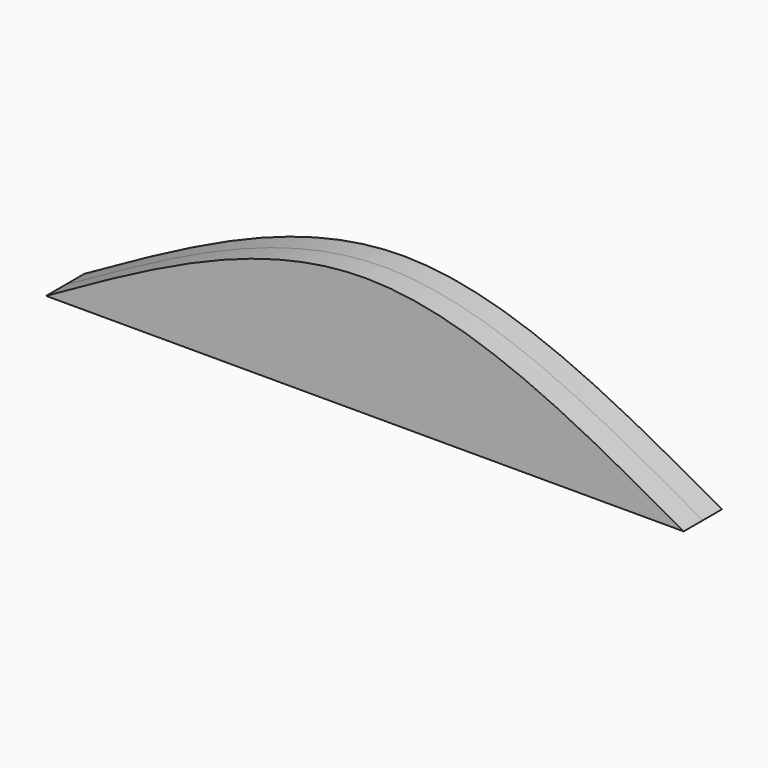
from build123d import *

# Parameters (mm, degrees)
F1_DEPTH = 3.81


with BuildPart() as f1:
    # F0 (on Front) → F1 (new body, symmetric)
    with BuildSketch(Plane.XZ):
        with BuildLine():
            add(Edge.make_bspline(
                [(-50.8, 0), (-33.866667, 9.525), (0, 28.575), (33.866667, 9.525), (50.8, 0)],
                knots=[0, 0, 0, 0, 54.254424, 108.508848, 108.508848, 108.508848, 108.508848], degree=3))
            Line((-50.8, 0), (50.8, 0))
        make_face()
    extrude(amount=F1_DEPTH, both=True)


solid = f1.part
